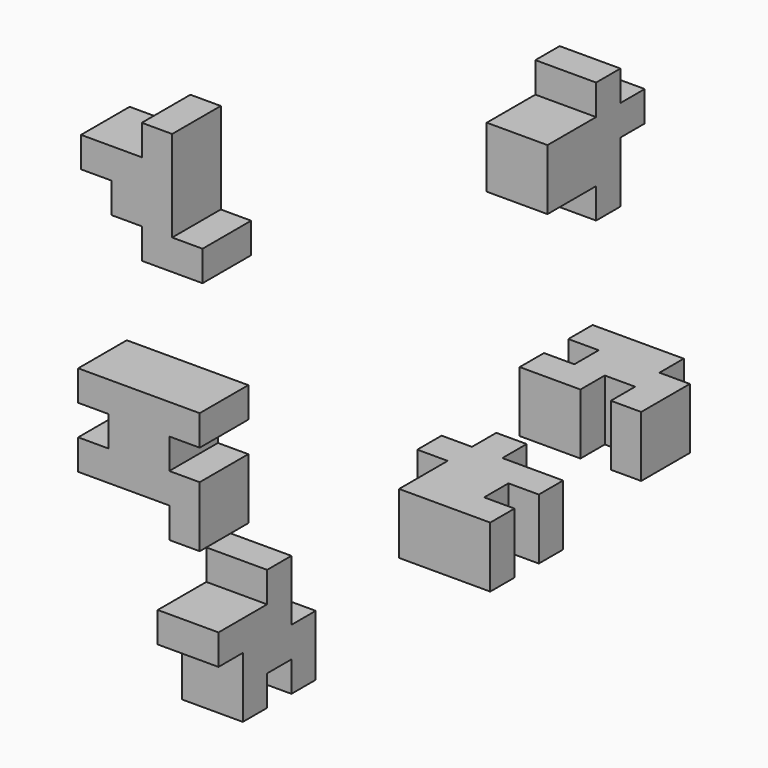
from build123d import *

# Parameters (mm, degrees)
F1_DEPTH  = 6.35
F3_DEPTH  = 6.35
F5_DEPTH  = 6.35
F7_DEPTH  = 6.35
F9_DEPTH  = 6.35
F11_DEPTH = 6.35


with BuildPart() as f1:
    # F0 (on Front) → F1 (new body, symmetric)
    with BuildSketch(Plane.XZ):
        Polygon((-37.056787, 38.143132), (-43.406787, 38.143132), (-43.406787, 31.793132), (-56.106787, 31.793132), (-56.106787, 25.443132), (-49.756787, 25.443132), (-49.756787, 19.093132), (-43.406787, 19.093132), (-43.406787, 12.743132), (-30.706787, 12.743132), (-30.706787, 19.093132), (-37.056787, 19.093132), align=None)
    extrude(amount=F1_DEPTH, both=True)


with BuildPart() as f3:
    # F2 (on Top) → F3 (new body, symmetric)
    with BuildSketch(Plane.XY):
        Polygon((39.600315, 31.492337), (20.550315, 31.492337), (20.550315, 25.142337), (26.900315, 25.142337), (26.900315, 18.792337), (20.550315, 18.792337), (20.550315, 12.442337), (33.250316, 12.442337), (33.250316, 18.792337), (39.600316, 18.792337), (39.600316, 12.442337), (45.950315, 12.442337), (45.950315, 25.142337), (39.600315, 25.142337), align=None)
    extrude(amount=F3_DEPTH, both=True)


with BuildPart() as f5:
    # F4 (on Right) → F5 (new body, symmetric)
    with BuildSketch(Plane.YZ):
        Polygon((56.508505, 38.753134), (50.158505, 38.753134), (50.158505, 32.403134), (37.458505, 32.403134), (37.458505, 19.703134), (50.158505, 19.703134), (50.158505, 13.353134), (56.508505, 13.353134), (56.508505, 26.053134), (62.858505, 26.053134), (62.858505, 32.403134), (56.508505, 32.403134), align=None)
    extrude(amount=F5_DEPTH, both=True)


with BuildPart() as f7:
    # F6 (on Front) → F7 (new body, symmetric)
    with BuildSketch(Plane.XZ):
        Polygon((-31.302583, -17.709987), (-31.302583, -11.359987), (-56.702583, -11.359987), (-56.702583, -17.709987), (-50.352583, -17.709987), (-50.352583, -24.059987), (-56.702583, -24.059987), (-56.702583, -30.409987), (-37.652583, -30.409987), (-37.652583, -36.759987), (-31.302583, -36.759987), (-31.302583, -24.059987), (-37.652583, -24.059987), (-37.652583, -17.709987), align=None)
    extrude(amount=F7_DEPTH, both=True)


with BuildPart() as f9:
    # F8 (on Top) → F9 (new body, symmetric)
    with BuildSketch(Plane.XY):
        Polygon((25.733529, -20.789856), (32.083529, -20.789856), (32.083529, -33.489856), (51.133529, -33.489856), (51.133529, -27.139856), (44.783529, -27.139856), (44.783529, -20.789856), (51.133529, -20.789856), (51.133529, -14.439856), (38.433529, -14.439856), (38.433529, -8.089856), (32.083529, -8.089856), (32.083529, -14.439856), (25.733529, -14.439856), align=None)
    extrude(amount=F9_DEPTH, both=True)


with BuildPart() as f11:
    # F10 (on Right) → F11 (new body, symmetric)
    with BuildSketch(Plane.YZ):
        Polygon((-29.452352, -28.670423), (-29.452352, -15.970423), (-35.802352, -15.970423), (-35.802352, -22.320423), (-48.502352, -22.320423), (-48.502352, -28.670423), (-42.152352, -28.670423), (-42.152352, -41.370423), (-35.802352, -41.370423), (-35.802352, -35.020423), (-29.452352, -35.020423), (-29.452352, -41.370423), (-23.102352, -41.370423), (-23.102352, -28.670423), align=None)
    extrude(amount=F11_DEPTH, both=True)


solid = Compound([f1.part, f3.part, f5.part, f7.part, f9.part, f11.part])
